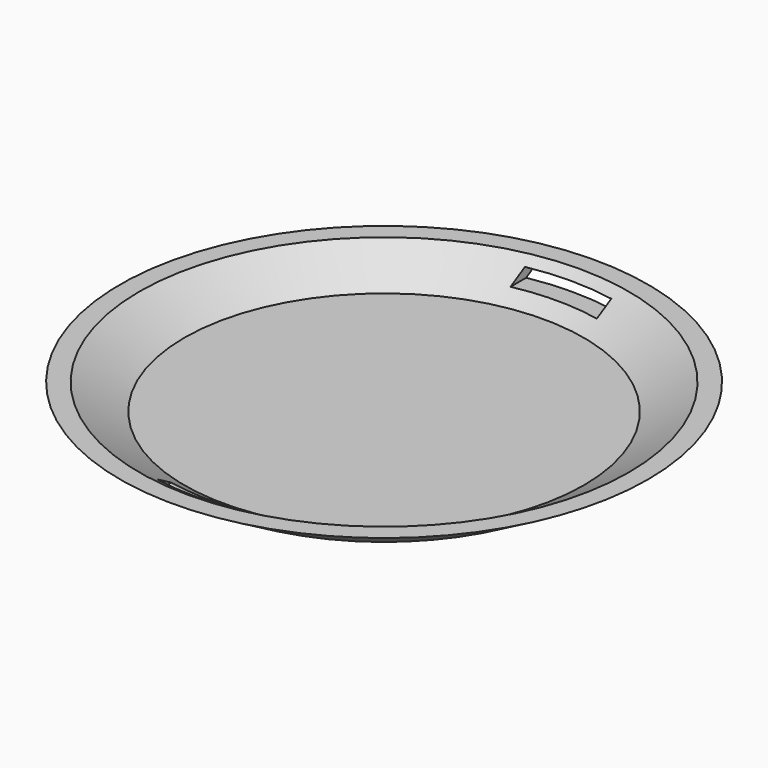
from build123d import *

# Parameters (mm, degrees)
F2_T     = -2.54
F3_W     = 22.871588
F3_H     = 2.704573
F4_DEPTH = 69.939388
F5_DEPTH = 69.939388


with BuildPart() as f1:
    # F0 (on Front) → F1 (revolve)
    with BuildSketch(Plane.XZ):
        Polygon((0, 9.426419), (0, 0), (53.611351, 0), (69.938388, 9.426419), align=None)
    revolve(axis=Axis((0, 0, 4.71321), (0, 0, 1)))

    # F2
    f2_openings = [f1.faces().sort_by_distance(p)[0] for p in [
        (0, 0, 9.426419),
    ]]
    offset(amount=F2_T, openings=f2_openings)

    # F3 (on Front) → F4 (cut, through all)
    with BuildSketch(Plane.XZ):
        with Locations((0, 6.432339)):
            Rectangle(F3_W, F3_H)
    extrude(amount=-F4_DEPTH, mode=Mode.SUBTRACT)

    # F3 (on Front) → F5 (cut, through all)
    with BuildSketch(Plane.XZ):
        with Locations((0, 6.432339)):
            Rectangle(F3_W, F3_H)
    extrude(amount=F5_DEPTH, mode=Mode.SUBTRACT)


solid = f1.part
